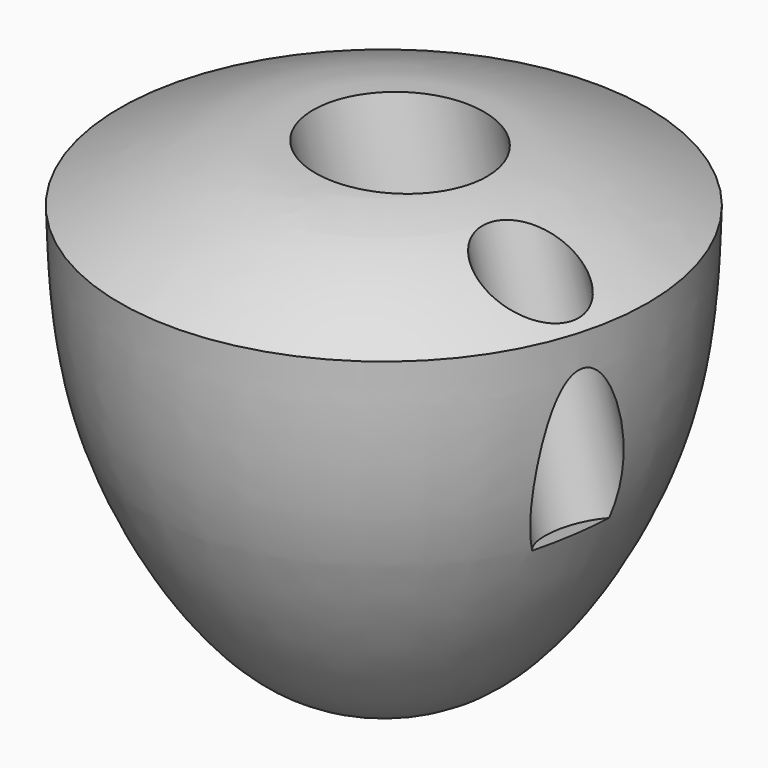
from build123d import *

# Parameters (mm, degrees)
F5_R          = 28.1351456659
F5_R_2        = 15.0456501995
F6_DEPTH      = 25
F6_DEPTH_BACK = 123
F7_DEPTH      = 25


with BuildPart() as f1:
    # F0 (on Front) → F1 (revolve)
    with BuildSketch(Plane.XZ):
        with BuildLine():
            Line((0, 84.6772193909), (0, -78.7712782621))
            add(Edge.make_bspline(
                [(0, -78.7712782621), (12.2312775301, -77.0846384083), (41.9575545547, -72.985514387), (86.4633533285, 0.1863871818), (87.9352318735, 44.3498965364), (88.6383876204, 65.4479861259)],
                knots=[0, 0, 0, 0, 0.2674727116, 0.6500521226, 1, 1, 1, 1], degree=3))
            add(Edge.make_bspline(
                [(88.6383876204, 65.4479861259), (72.7589245003, 73.3354451552), (42.5614974136, 88.3347538304), (13.689512142, 85.8536315277), (0, 84.6772193909)],
                knots=[0, 0, 0, 0, 0.5258548377, 1, 1, 1, 1], degree=3))
        make_face()
    revolve(axis=Axis((0, 0, 2.9529705644), (0, 0, -1)))

    # F5 (on line) → F6 (cut, two sides)
    with BuildSketch(Plane(origin=(-26.75, 0, 99.8323591025), x_dir=(0.9659258263, 0, 0.2588190451), z_dir=(0.2588190451, 0, -0.9659258263))) as f6_sk:
        with Locations((27.4397581816, 0)):
            Circle(F5_R)
        with Locations((81.7844085945, 19.2645784002)):
            Circle(F5_R_2)
    extrude(amount=-F6_DEPTH, mode=Mode.SUBTRACT)
    extrude(f6_sk.sketch, amount=F6_DEPTH_BACK, mode=Mode.SUBTRACT)

    # F5 (on line) → F7 (cut)
    with BuildSketch(Plane(origin=(-26.75, 0, 99.8323591025), x_dir=(0.9659258263, 0, 0.2588190451), z_dir=(0.2588190451, 0, -0.9659258263))):
        with Locations((27.4397581816, 0)):
            Circle(F5_R)
        with Locations((81.7844085945, 19.2645784002)):
            Circle(F5_R_2)
    extrude(amount=-F7_DEPTH, mode=Mode.SUBTRACT)


solid = f1.part
